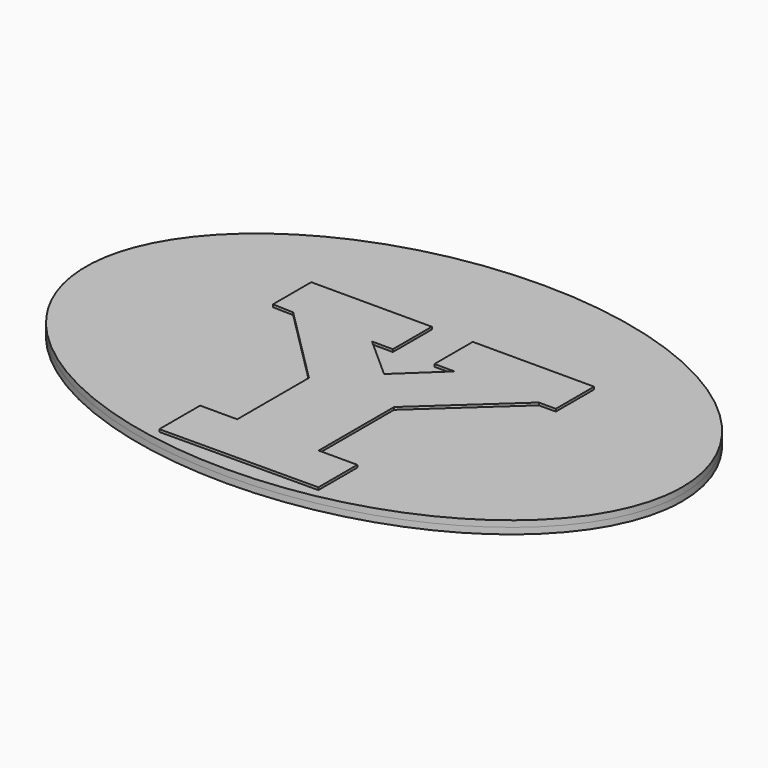
from build123d import *

# Parameters (mm, degrees)
F2_DEPTH = 1.5875
F3_DEPTH = 2.2225


with BuildPart() as f2:
    # F0 (on Top) → F2 (new body, symmetric)
    with BuildSketch(Plane.XY):
        with BuildLine():
            add(Edge.make_bspline(
                [(75.88172, 0), (75.88172, 87.592152), (-37.94086, 43.796076), (-151.763439, 0), (-37.94086, -43.796076), (75.88172, -87.592152), (75.88172, 0)],
                knots=[0, 0, 0, 2.094395, 2.094395, 4.18879, 4.18879, 6.283185, 6.283185, 6.283185], degree=2, weights=[1, 0.5, 1, 0.5, 1, 0.5, 1]))
        make_face()
        Polygon((-5.307788, 21.82091), (-5.307788, 17.496044), (-5.307788, 9.436069), (-10.615577, 9.436069), (0, 0), (10.222409, 9.632654), (5.111205, 9.632654), (5.111205, 17.29946), (5.111205, 21.82091), (35.975013, 21.82091), (35.975013, 9.632654), (31.650145, 9.632654), (10.418992, -9.829238), (10.418992, -33.812579), (20.248231, -33.812579), (20.248231, -46.197418), (-20.051647, -46.394005), (-20.051647, -33.419412), (-10.615577, -33.419412), (-10.615577, -10.615578), (-30.667225, 9.436069), (-35.975013, 9.632654), (-35.975013, 21.82091), align=None, mode=Mode.SUBTRACT)
    extrude(amount=F2_DEPTH, both=True)

    # F1 (on face) → F3 (join, symmetric)
    with BuildSketch(Plane.XY):
        Polygon((-10.615577, 9.436069), (-5.307788, 9.436069), (-5.307788, 17.496044), (-5.307788, 21.82091), (-35.975013, 21.82091), (-35.975013, 9.632654), (-30.667225, 9.436069), (-10.615577, -10.615578), (-10.615577, -33.419412), (-20.051647, -33.419412), (-20.051647, -46.394005), (20.248231, -46.197418), (20.248231, -33.812579), (10.418992, -33.812579), (10.418992, -9.829238), (31.650145, 9.632654), (35.975013, 9.632654), (35.975013, 21.82091), (5.111205, 21.82091), (5.111205, 17.29946), (5.111205, 9.632654), (10.222409, 9.632654), (0, 0), align=None)
    extrude(amount=F3_DEPTH, both=True)


solid = f2.part
